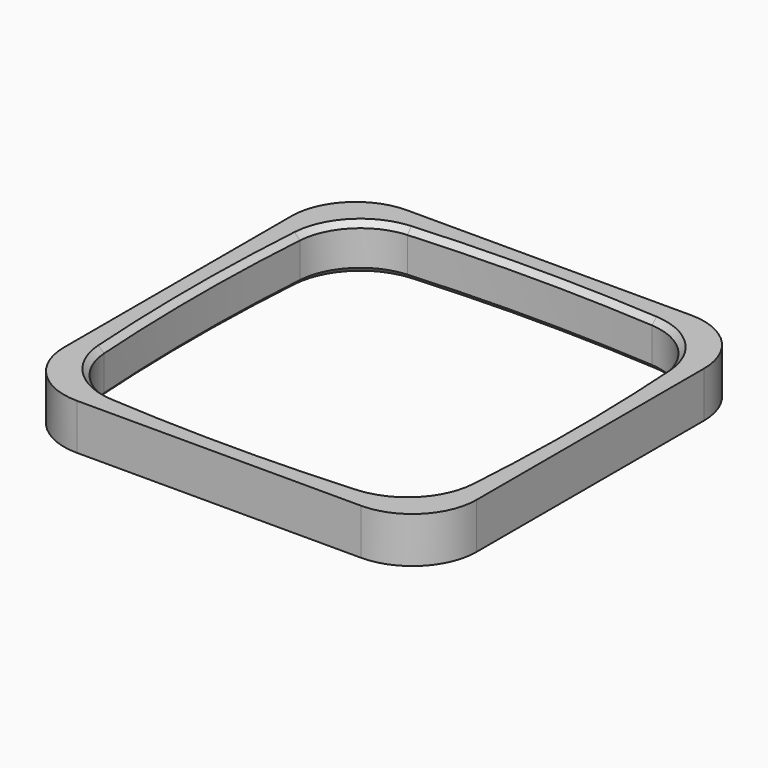
from build123d import *

# Parameters (mm, degrees)
F0_W     = 45
F0_H     = 45
F1_DEPTH = 5
F2_R     = 7
F3_SIZE  = 0.6


with BuildPart() as f1:
    # F0 (on Top) → F1 (new body)
    with BuildSketch(Plane.XY):
        Rectangle(F0_W, F0_H)
        with BuildLine():
            ThreePointArc((-19.360702, 19.360702), (0, 20.3), (19.360702, 19.360702))
            ThreePointArc((19.360702, 19.360702), (20.3, 0), (19.360702, -19.360702))
            ThreePointArc((19.360702, -19.360702), (0, -20.3), (-19.360702, -19.360702))
            ThreePointArc((-19.360702, -19.360702), (-20.3, 0), (-19.360702, 19.360702))
        make_face(mode=Mode.SUBTRACT)
    extrude(amount=F1_DEPTH)

    # F2
    f2_edges = [f1.edges().sort_by_distance(p)[0] for p in [
        (-19.360702, 19.360702, 2.5),
        (19.360702, 19.360702, 2.5),
        (19.360702, -19.360702, 2.5),
        (-19.360702, -19.360702, 2.5),
        (-22.5, 22.5, 2.5),
        (22.5, 22.5, 2.5),
        (22.5, -22.5, 2.5),
        (-22.5, -22.5, 2.5),
    ]]
    fillet(f2_edges, radius=F2_R)

    # F3
    f3_edges = [f1.edges().sort_by_distance(p)[0] for p in [
        (-20.3, 0, 5),
        (-20.3, 0, 0),
    ]]
    chamfer(f3_edges, length=F3_SIZE)


solid = f1.part
